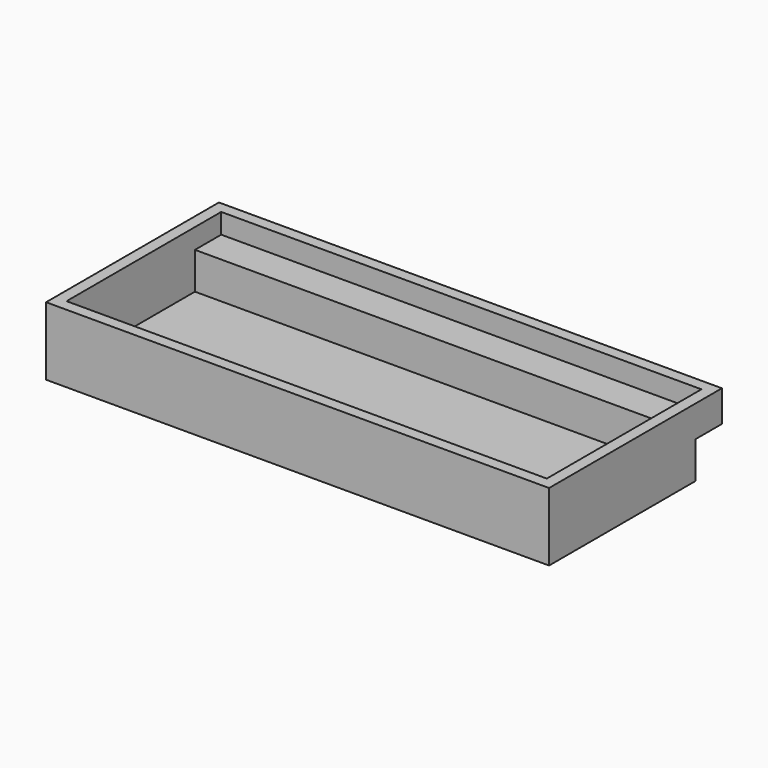
from build123d import *

# Parameters (mm, degrees)
F0_W     = 110.5350777507
F0_H     = 47.4778749049
F1_DEPTH = 15
F2_W     = 7.2117066011
F2_H     = 8.0962125212
F3_DEPTH = 110.5350777507
F4_T     = -2.5


with BuildPart() as f1:
    # F0 (on Top) → F1 (new body)
    with BuildSketch(Plane.XY):
        with Locations((-0.6117708981, -1.0488014668)):
            Rectangle(F0_W, F0_H)
    extrude(amount=F1_DEPTH)

    # F2 (on face) → F3 (cut, through all)
    with BuildSketch(Plane.YZ.offset(54.6557679772)):
        with Locations((19.0842826851, 4.0481062606)):
            Rectangle(F2_W, F2_H)
    extrude(amount=-F3_DEPTH, mode=Mode.SUBTRACT)

    # F4
    f4_openings = [f1.faces().sort_by_distance(p)[0] for p in [
        (-0.611771, -1.048801, 15),
    ]]
    offset(amount=F4_T, openings=f4_openings, kind=Kind.INTERSECTION)


solid = f1.part
